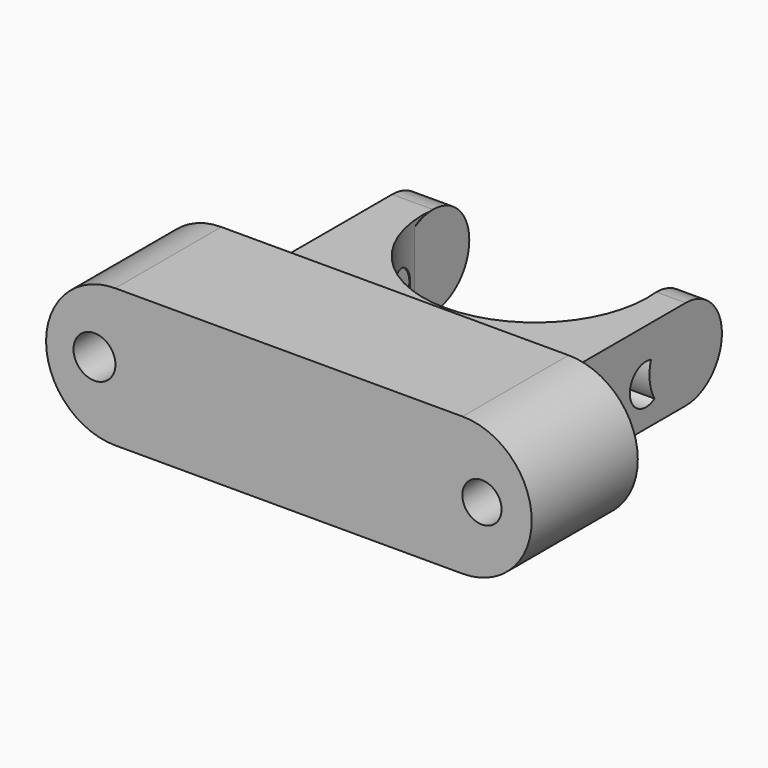
from build123d import *

# Parameters (mm, degrees)
F0_W     = 66.5143355727
F0_H     = 26.5093380585
F1_DEPTH = 25.4
F2_R     = 4.014844692
F2_R_2   = 3.7572922796
F3_DEPTH = 25.4
F4_W     = 56.2347974628
F4_H     = 17.3515677452
F5_DEPTH = 30.988
F7_DEPTH = 32.512
F8_R     = 3.8559043701
F9_DEPTH = 79.502
F10_W    = 7.8387893736
F10_H    = 8.6757838726
F11_W    = 5.6234812364
F11_H    = 8.6757838726


with BuildPart() as f1:
    # F0 (on Front) → F1 (new body)
    with BuildSketch(Plane.XZ):
        with BuildLine():
            ThreePointArc((22.5329361856, -9.037273936), (35.7876052149, 4.2173950933), (22.5329361856, 17.4720641226))
            Line((22.5329361856, 17.4720641226), (22.5329361856, -9.037273936))
        make_face()
        with BuildLine():
            Line((-43.9813993871, -9.037273936), (-43.9813993871, 17.4720641226))
            ThreePointArc((-43.9813993871, 17.4720641226), (-57.2360684164, 4.2173950933), (-43.9813993871, -9.037273936))
        make_face()
        with Locations((-10.7242316008, 4.2173950933)):
            Rectangle(F0_W, F0_H)
    extrude(amount=F1_DEPTH)

    # F2 (on face) → F3 (cut)
    with BuildSketch(Plane.XZ.offset(25.4)):
        with Locations((-47.9707419872, 4.5908982866)):
            Circle(F2_R)
        with Locations((26.2565240264, 4.2173950933)):
            Circle(F2_R_2)
    extrude(amount=-F3_DEPTH, mode=Mode.SUBTRACT)

    # F4 (on face) → F5 (join)
    with BuildSketch(Plane(origin=(0, 0, 0), x_dir=(-1, 0, 0), z_dir=(0, 1, 0))):
        with Locations((7.9463692382, 4.2671263218)):
            Rectangle(F4_W, F4_H)
    extrude(amount=F5_DEPTH)

    # F6 (on face) → F7 (cut)
    with BuildSketch(Plane.XY.offset(12.9429101944)):
        with BuildLine():
            Line((14.5475482568, 30.988), (-28.224978596, 30.988))
            ThreePointArc((-28.224978596, 30.988), (-6.8387151696, 7.2567955588), (14.5475482568, 30.988))
        make_face()
    extrude(amount=-F7_DEPTH, mode=Mode.SUBTRACT)

    # F8 (on face) → F9 (cut)
    with BuildSketch(Plane(origin=(-36.0637679696, 0, 0), x_dir=(0, -1, 0), z_dir=(-1, 0, 0))):
        with Locations((-21.4650537819, 3.0787487049)):
            Circle(F8_R)
    extrude(amount=-F9_DEPTH, mode=Mode.SUBTRACT)

    # F10 (on face) → F12 (revolve)
    with BuildSketch(Plane(origin=(0, 30.988, 0), x_dir=(-1, 0, 0), z_dir=(0, 1, 0))):
        with Locations((32.1443732828, 8.6050182581)):
            Rectangle(F10_W, F10_H)
    revolve(axis=Axis((-32.1443732828, 30.988, 4.2671263218), (1, 0, 0)))

    # F11 (on face) → F13 (revolve)
    with BuildSketch(Plane(origin=(0, 30.988, 0), x_dir=(-1, 0, 0), z_dir=(0, 1, 0))):
        with Locations((-17.359288875, 8.6050182581)):
            Rectangle(F11_W, F11_H)
    revolve(axis=Axis((17.359288875, 30.988, 4.2671263218), (1, 0, 0)))


solid = f1.part
